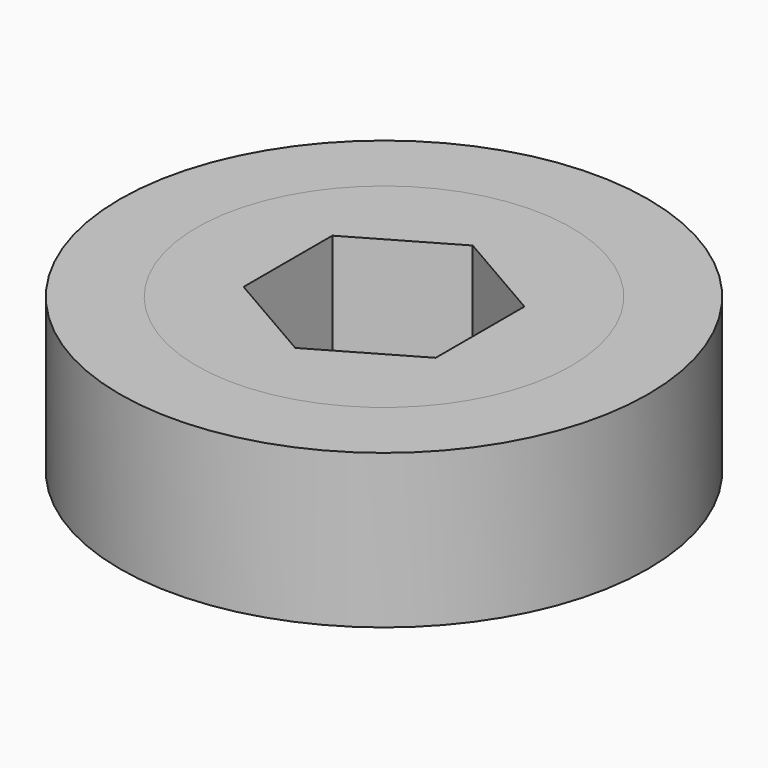
from build123d import *

# Parameters (mm, degrees)
F0_R     = 17.4625
F0_R_2   = 12.3825
F1_DEPTH = 10.16
F2_R     = 12.3825
F3_DEPTH = 10.16


with BuildPart() as f1:
    # F0 (on Top) → F1 (new body)
    with BuildSketch(Plane.XY):
        Circle(F0_R)
        Circle(F0_R_2, mode=Mode.SUBTRACT)
    extrude(amount=F1_DEPTH)


with BuildPart() as f3:
    # F2 (on Top) → F3 (new body)
    with BuildSketch(Plane.XY):
        Circle(F2_R)
        Polygon((-6.35, 3.666174), (0, 7.332348), (6.35, 3.666174), (6.35, -3.666174), (0, -7.332348), (-6.35, -3.666174), align=None, mode=Mode.SUBTRACT)
    extrude(amount=F3_DEPTH)


solid = Compound([f1.part, f3.part])
